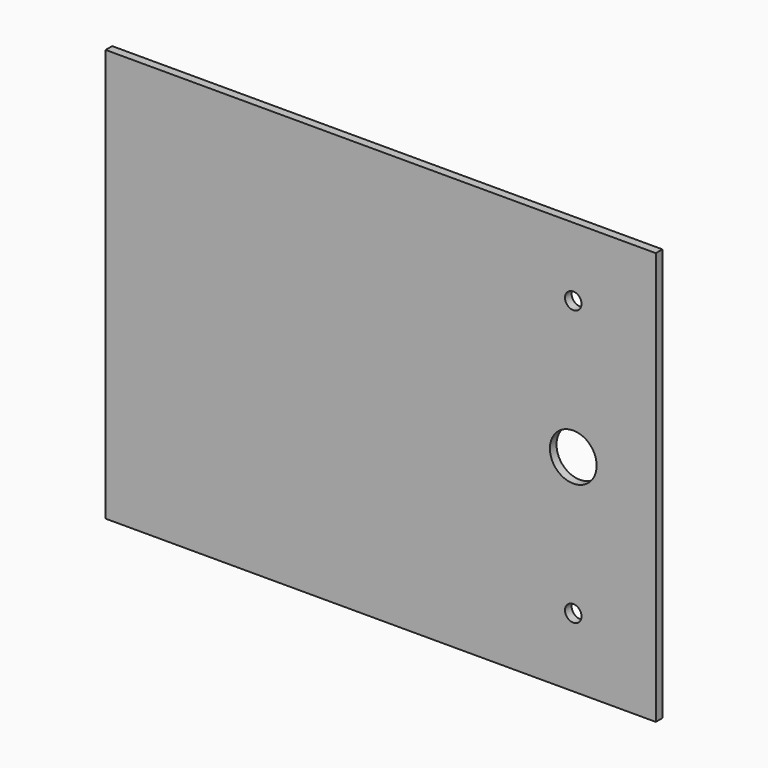
from build123d import *

# Parameters (mm, degrees)
F0_W     = 200
F0_H     = 150
F0_R     = 3
F0_R_2   = 8.5
F1_DEPTH = 1.5


with BuildPart() as f1:
    # F0 (on Front) → F1 (new body, symmetric)
    with BuildSketch(Plane.XZ):
        Rectangle(F0_W, F0_H)
        with Locations((70, -50)):
            Circle(F0_R, mode=Mode.SUBTRACT)
        with Locations((70, 0)):
            Circle(F0_R_2, mode=Mode.SUBTRACT)
        with Locations((70, 50)):
            Circle(F0_R, mode=Mode.SUBTRACT)
    extrude(amount=F1_DEPTH, both=True)


solid = f1.part
